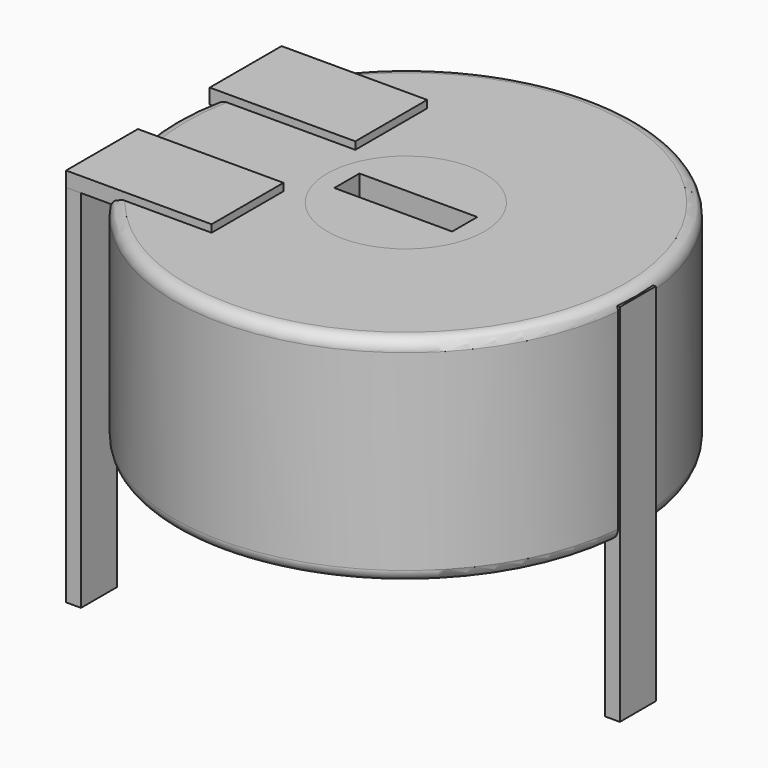
from build123d import *

# Parameters (mm, degrees)
SKETCH003_W       = 0.333334
SKETCH003_H       = 1
PAD002_DEPTH      = 5.133333
PAD002_DEPTH_BACK = 3
SKETCH004_R       = 1.75
SKETCH004_W       = 2.625
SKETCH004_H       = 0.7
PAD003_DEPTH      = 4.8
SKETCH_R          = 5.15
SKETCH_R_2        = 1.75
PAD_DEPTH         = 4.8
FILLET_R          = 0.265
SKETCH005_W       = 3.241667
SKETCH005_H       = 2
PAD004_DEPTH      = 0.333333


with BuildPart() as pad002:
    # Sketch003 → Pad002 (new body, two sides)
    with BuildSketch(Plane(origin=(0, 5, 0), x_dir=(1, 0, 0), z_dir=(0, 0, 1))) as pad002_sk:
        Rectangle(SKETCH003_W, SKETCH003_H)
        with Locations((10, -2.5)):
            Rectangle(SKETCH003_W, SKETCH003_H)
        with Locations((0, -5)):
            Rectangle(SKETCH003_W, SKETCH003_H)
    extrude(amount=PAD002_DEPTH)
    extrude(pad002_sk.sketch, amount=-PAD002_DEPTH_BACK)


with BuildPart() as pad003:
    # Sketch004 → Pad003 (new body)
    with BuildSketch(Plane(origin=(0, 5, 0.5), x_dir=(1, 0, 0), z_dir=(0, 0, 1))):
        with Locations((5, -2.5)):
            Circle(SKETCH004_R)
        with Locations((5, -2.5)):
            Rectangle(SKETCH004_W, SKETCH004_H, mode=Mode.SUBTRACT)
    extrude(amount=PAD003_DEPTH)


with BuildPart() as fillet_body:
    # Sketch → Pad (new body)
    with BuildSketch(Plane(origin=(0, 5, 0.5), x_dir=(1, 0, 0), z_dir=(0, 0, 1))):
        with Locations((5, -2.5)):
            Circle(SKETCH_R)
        with Locations((5, -2.5)):
            Circle(SKETCH_R_2, mode=Mode.SUBTRACT)
    extrude(amount=PAD_DEPTH)

    # Fillet
    fillet_edges = [fillet_body.edges().sort_by_distance(p)[0] for p in [
        (-0.15, 2.5, 0.5),
        (-0.15, 2.5, 5.3),
    ]]
    fillet(fillet_edges, radius=FILLET_R)


with BuildPart() as pad004:
    # Sketch005 → Pad004 (new body)
    with BuildSketch(Plane(origin=(0, 5, 5.133333), x_dir=(1, 0, 0), z_dir=(0, 0, 1))):
        with Locations((1.454166, -0.5)):
            Rectangle(SKETCH005_W, SKETCH005_H)
        with Locations((1.454166, -4.5)):
            Rectangle(SKETCH005_W, SKETCH005_H)
    extrude(amount=PAD004_DEPTH)


solid = Compound([pad002.part, pad003.part, fillet_body.part, pad004.part])
